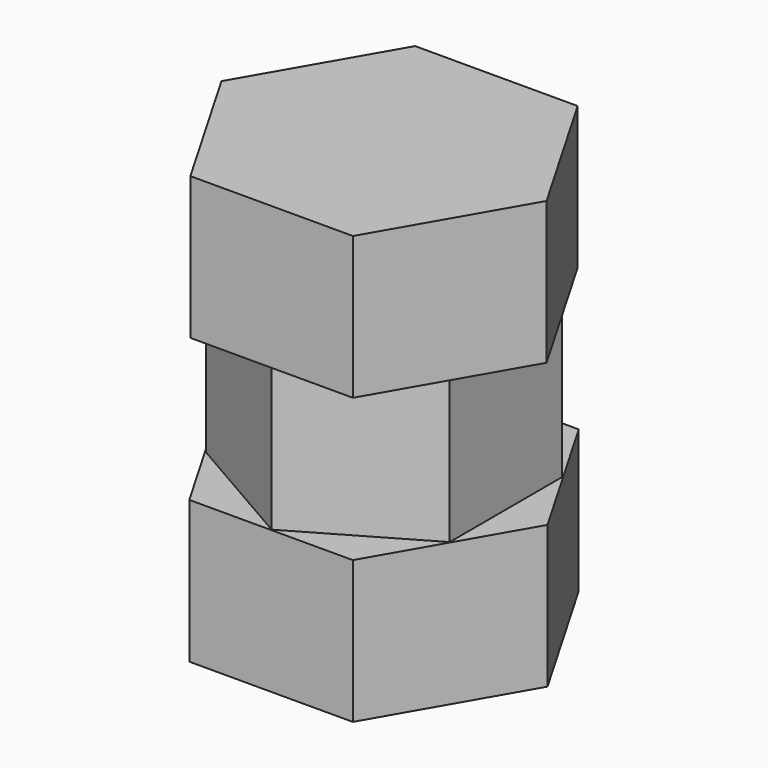
from build123d import *

# Parameters (mm, degrees)
F1_DEPTH = 76.2
F3_DEPTH = 76.2
F5_DEPTH = 76.2


with BuildPart() as f1:
    # F0 (on Top) → F1 (new body)
    with BuildSketch(Plane.XY):
        Polygon((43.789267, -75.609836), (87.374672, 0.1177), (43.585405, 75.727536), (-43.789267, 75.609836), (-87.374672, -0.1177), (-43.585405, -75.727536), align=None)
    extrude(amount=F1_DEPTH)

    # F2 (on face) → F3 (join)
    with BuildSketch(Plane.XY.offset(76.2)):
        Polygon((-0.082408, 75.248235), (-65.208088, 37.55275), (-65.125679, -37.695485), (0.082408, -75.248235), (65.208088, -37.55275), (65.125679, 37.695485), align=None)
    extrude(amount=F3_DEPTH)

    # F4 (on face) → F5 (join)
    with BuildSketch(Plane.XY.offset(152.4)):
        Polygon((43.526997, -75.200657), (86.889178, 0.095157), (43.362181, 75.295814), (-43.526997, 75.200657), (-86.889178, -0.095157), (-43.362181, -75.295814), align=None)
    extrude(amount=F5_DEPTH)


solid = f1.part
